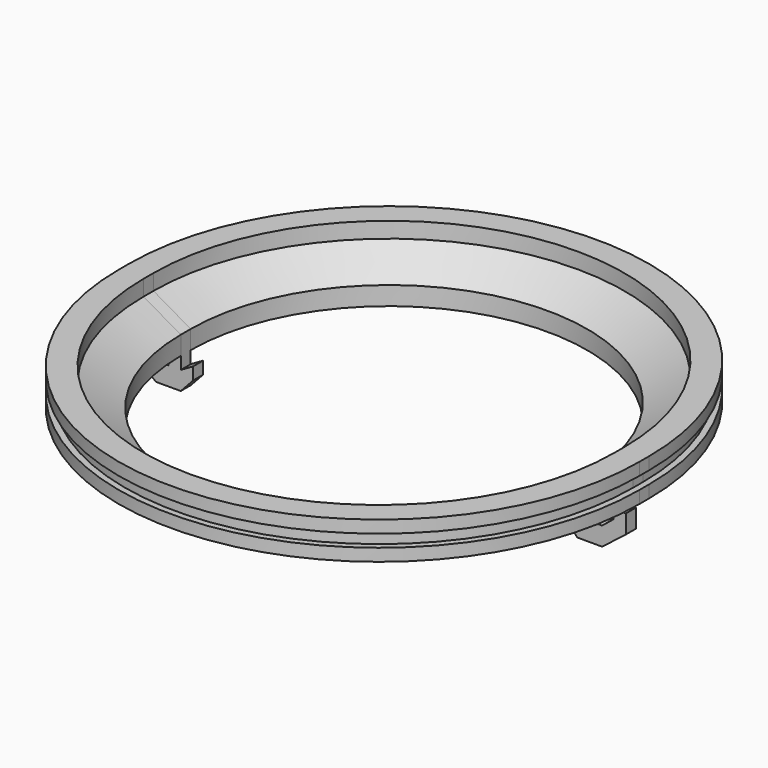
from build123d import *

# Parameters (mm, degrees)
F3_DEPTH = 0.5


with BuildPart() as f3:
    # F2 (on Front) → F3 (new body, symmetric)
    with BuildSketch(Plane.XZ):
        Polygon((-16, 0), (-17, 0), (-17, -1), (-18, -1), (-18.9205025733, -0.2568606869), (-18.9205025733, 0.4893779857), (-19.9205025733, 0.4893779857), (-19.9205025733, -1.0106220143), (-18, -2.5), (-17, -2.5), (-16, -2.5), (-15, -1.4226497308), (-15, -0.4226497308), (-16, -1), align=None)
    extrude(amount=F3_DEPTH, both=True)



with BuildPart() as f3b:
    # F2 (on Front) → F3, piece 2 (new body, symmetric)
    with BuildSketch(Plane.XZ):
        Polygon((17, 0), (16, 0), (16, -1), (15, -0.4226497308), (15, -1.4226497308), (16, -2.5), (17, -2.5), (18, -2.5), (19.9205025733, -1.0106220143), (19.9205025733, 0.4893779857), (18.9205025733, 0.4893779857), (18.9205025733, -0.2568606869), (18, -1), (17, -1), align=None)
    extrude(amount=F3_DEPTH, both=True)


with BuildPart() as f3_1:
    add(f3.part)

    add(f3b.part)  # F4 merges F3b
    # F4: sweep along a path in F0
    with BuildLine(Plane.XY) as f4_path:
        ThreePointArc((-16, -0.5), (0, -16.5), (16, -0.5))
        Line((16, -0.5), (16, 0.5))
        ThreePointArc((16, 0.5), (0, 16.5), (-16, 0.5))
        Line((-16, 0.5), (-16, -0.5))
    # F1 (on Front) → F4 (sweep)
    with BuildSketch(Plane.XZ):
        Polygon((16, 0), (18, 0), (18, 1.5), (21, 1.5), (21, 2.5), (20.5, 2.5), (20.5, 3.5), (21, 3.5), (21, 4.5), (19, 4.5), (19, 3.2320508076), (16, 1.5), align=None)
    sweep(path=f4_path.line)


solid = f3_1.part
